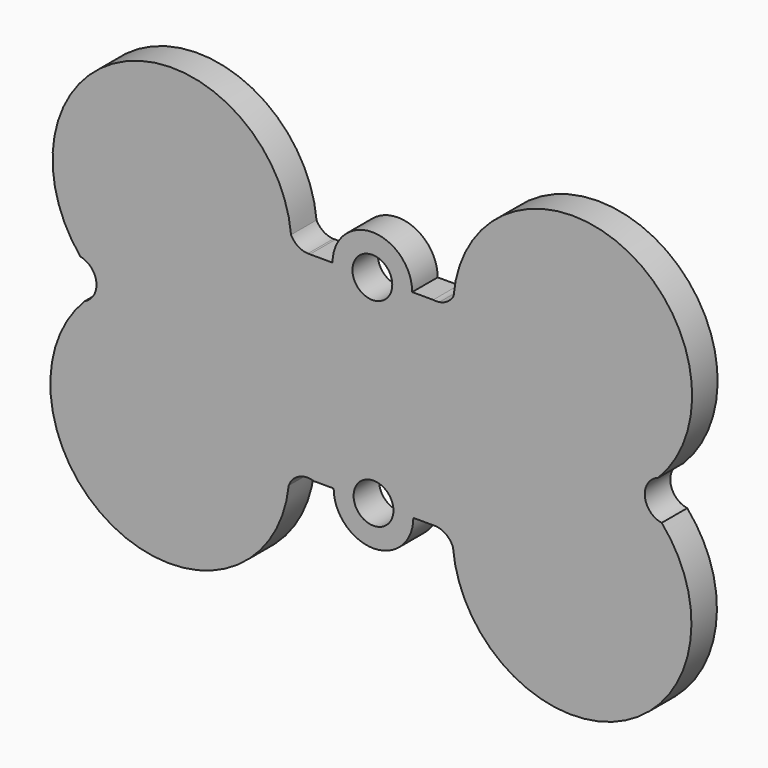
from build123d import *

# Parameters (mm, degrees)
F0_R     = 2.5
F1_DEPTH = 4


with BuildPart() as f1:
    # F0 (on Front) → F1 (new body)
    with BuildSketch(Plane.XZ):
        with BuildLine():
            ThreePointArc((-7.989135, 12.5), (-8.11298, 12.496931), (-8.236825, 12.5))
            ThreePointArc((-8.236825, 12.5), (-9.481632, 12.904852), (-10.35122, 13.883252))
            ThreePointArc((-10.35122, 13.883252), (-31.0592, 26.345043), (-36.782912, 2.864077))
            ThreePointArc((-36.782912, 2.864077), (-34.792965, 0.702031), (-36.233629, -1.858988))
            ThreePointArc((-36.233629, -1.858988), (-31.965386, -25.974795), (-10.645566, -13.922603))
            ThreePointArc((-10.645566, -13.922603), (-9.3812, -12.524699), (-7.5, -12.407048))
            Line((-7.5, -12.407048), (-5, -12.407048))
            ThreePointArc((-5, -12.407048), (0, -17.407048), (5, -12.407048))
            Line((5, -12.407048), (7.831228, -12.407048))
            ThreePointArc((7.831228, -12.407048), (9.139477, -12.909558), (9.971767, -14.03709))
            ThreePointArc((9.971767, -14.03709), (30.817587, -26.503972), (36.182002, -2.81443))
            ThreePointArc((36.182002, -2.81443), (34.067365, -0.577316), (35.726535, 2.01566))
            ThreePointArc((35.726535, 2.01566), (31.223825, 26.147431), (10.049361, 13.727334))
            ThreePointArc((10.049361, 13.727334), (9.295627, 12.909806), (8.261931, 12.5))
            ThreePointArc((8.261931, 12.5), (7.880498, 12.47073), (7.499065, 12.5))
            Line((7.499065, 12.5), (4.85588, 12.5))
            ThreePointArc((4.85588, 12.5), (-0.14412, 17.5), (-5.14412, 12.5))
            Line((-5.14412, 12.5), (-7.989135, 12.5))
        make_face()
        with Locations((0, -12.407048)):
            Circle(F0_R, mode=Mode.SUBTRACT)
        with Locations((-0.14412, 12.5)):
            Circle(F0_R, mode=Mode.SUBTRACT)
    extrude(amount=F1_DEPTH)


solid = f1.part
